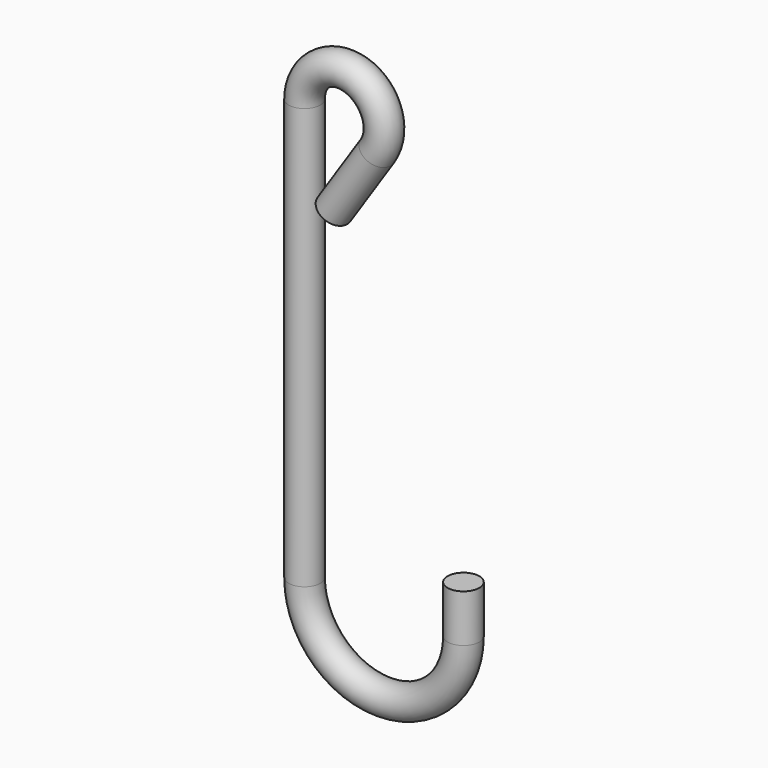
from build123d import *

# Parameters (mm, degrees)
F1_R = 6.35


with BuildPart() as f2:
    # F2: sweep along a path in F0
    with BuildLine(Plane.XZ) as f2_path:
        Line((-51.7302755781, 114.3), (-34.3931889452, 140.4537514452))
        ThreePointArc((-34.3931889452, 140.4537514452), (-43.0445729181, 164.4248458133), (-63.5, 149.225))
        Line((-63.5, 149.225), (-63.5, -19.05))
        ThreePointArc((-63.5, -19.05), (-31.75, -50.8), (0, -19.05))
        Line((0, -19.05), (0, 0))
    # F1 (on Top) → F2 (sweep)
    with BuildSketch(Plane.XY):
        Circle(F1_R)
    sweep(path=f2_path.line)


solid = f2.part
